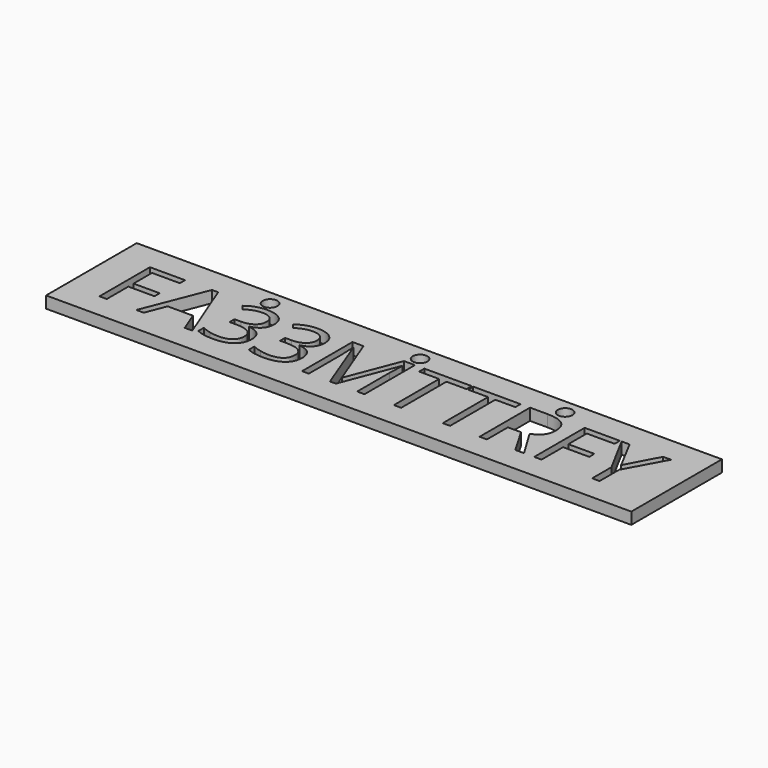
from build123d import *

# Parameters (mm, degrees)
F0_W     = 100
F0_H     = 19.3569156888
F0_R     = 1.25
F1_DEPTH = 2
F2_DEPTH = 25


with BuildPart() as f1:
    # F0 (on Top) → F1 (new body)
    with BuildSketch(Plane.XY):
        with Locations((45.7573593129, -5.4358171573)):
            Rectangle(F0_W, F0_H)
        Polygon((2.7344236481, -6.2639299273), (2.7344236481, -10.8716343146), (1.4816376627, -10.8716343146), (1.4816376627, -0.09201253), (7.4907636607, -0.09201253), (7.4907636607, -1.2056000726), (2.7344236481, -1.2056000726), (2.7344236481, -5.1503423847), (7.2029295925, -5.1503423847), (7.2029295925, -6.2639299273), align=None, mode=Mode.SUBTRACT)
        Polygon((17.3479008496, -10.8716343146), (16.050288247, -10.8716343146), (14.7078490271, -7.4435777479), (10.3879787081, -7.4435777479), (9.0620545578, -10.8716343146), (7.7927535028, -10.8716343146), (12.0536414308, -0.0471859128), (13.1082465824, -0.0471859128), align=None, mode=Mode.SUBTRACT)
        with BuildLine():
            add(Edge.make_bspline(
                [(23.8949462539, -0.6570638361), (24.7655263455, -1.3754693588), (24.7655263455, -2.6282553443)],
                knots=[0, 0, 0, 1, 1, 1], degree=2))
            add(Edge.make_bspline(
                [(24.7655263455, -2.6282553443), (24.7655263455, -3.6616268351), (24.1863192656, -4.3175110234)],
                knots=[0, 0, 0, 1, 1, 1], degree=2))
            add(Edge.make_bspline(
                [(24.1863192656, -4.3175110234), (23.6071121857, -4.9733952116), (22.5454291471, -5.1951690019)],
                knots=[0, 0, 0, 1, 1, 1], degree=2))
            Line((22.5454291471, -5.1951690019), (22.5454291471, -5.2541513929))
            add(Edge.make_bspline(
                [(22.5454291471, -5.2541513929), (23.8430417498, -5.4145834965), (24.4694347425, -6.0787252195)],
                knots=[0, 0, 0, 1, 1, 1], degree=2))
            add(Edge.make_bspline(
                [(24.4694347425, -6.0787252195), (25.0958277352, -6.7428669425), (25.0958277352, -7.8187057549)],
                knots=[0, 0, 0, 1, 1, 1], degree=2))
            add(Edge.make_bspline(
                [(25.0958277352, -7.8187057549), (25.0958277352, -9.3593258086), (24.0270668098, -10.1897978743)],
                knots=[0, 0, 0, 1, 1, 1], degree=2))
            add(Edge.make_bspline(
                [(24.0270668098, -10.1897978743), (22.9583058843, -11.02026994), (20.9906533196, -11.02026994)],
                knots=[0, 0, 0, 1, 1, 1], degree=2))
            add(Edge.make_bspline(
                [(20.9906533196, -11.02026994), (20.1342290018, -11.02026994), (19.422901366, -10.8905086797)],
                knots=[0, 0, 0, 1, 1, 1], degree=2))
            add(Edge.make_bspline(
                [(19.422901366, -10.8905086797), (18.7115737302, -10.7607474194), (18.0415337681, -10.4375239166)],
                knots=[0, 0, 0, 1, 1, 1], degree=2))
            Line((18.0415337681, -10.4375239166), (18.0415337681, -9.2720318698))
            add(Edge.make_bspline(
                [(18.0415337681, -9.2720318698), (18.7422445735, -9.6188483291), (19.534967909, -9.7993344456)],
                knots=[0, 0, 0, 1, 1, 1], degree=2))
            add(Edge.make_bspline(
                [(19.534967909, -9.7993344456), (20.3276912444, -9.9798205622), (21.0354799368, -9.9798205622)],
                knots=[0, 0, 0, 1, 1, 1], degree=2))
            add(Edge.make_bspline(
                [(21.0354799368, -9.9798205622), (23.8288859759, -9.9798205622), (23.8288859759, -7.7903942072)],
                knots=[0, 0, 0, 1, 1, 1], degree=2))
            add(Edge.make_bspline(
                [(23.8288859759, -7.7903942072), (23.8288859759, -5.8274602337), (20.7476458685, -5.8274602337)],
                knots=[0, 0, 0, 1, 1, 1], degree=2))
            Line((20.7476458685, -5.8274602337), (19.68596283, -5.8274602337))
            Line((19.68596283, -5.8274602337), (19.68596283, -4.7752143777))
            Line((19.68596283, -4.7752143777), (20.7618016424, -4.7752143777))
            add(Edge.make_bspline(
                [(20.7618016424, -4.7752143777), (22.0216655148, -4.7752143777), (22.7589454027, -4.2184206064)],
                knots=[0, 0, 0, 1, 1, 1], degree=2))
            add(Edge.make_bspline(
                [(22.7589454027, -4.2184206064), (23.4962252905, -3.6616268351), (23.4962252905, -2.6730819615)],
                knots=[0, 0, 0, 1, 1, 1], degree=2))
            add(Edge.make_bspline(
                [(23.4962252905, -2.6730819615), (23.4962252905, -1.8850772173), (22.9547669409, -1.4344517498)],
                knots=[0, 0, 0, 1, 1, 1], degree=2))
            add(Edge.make_bspline(
                [(22.9547669409, -1.4344517498), (22.4133085912, -0.9838262824), (21.4837461086, -0.9838262824)],
                knots=[0, 0, 0, 1, 1, 1], degree=2))
            add(Edge.make_bspline(
                [(21.4837461086, -0.9838262824), (20.7759574162, -0.9838262824), (20.1495644235, -1.1761088771)],
                knots=[0, 0, 0, 1, 1, 1], degree=2))
            add(Edge.make_bspline(
                [(20.1495644235, -1.1761088771), (19.5231714308, -1.3683914719), (18.7186516171, -1.8850772173)],
                knots=[0, 0, 0, 1, 1, 1], degree=2))
            Line((18.7186516171, -1.8850772173), (18.1005161591, -1.0593237429))
            add(Edge.make_bspline(
                [(18.1005161591, -1.0593237429), (18.7634782343, -0.5355601105), (19.6293397346, -0.2371092119)],
                knots=[0, 0, 0, 1, 1, 1], degree=2))
            add(Edge.make_bspline(
                [(19.6293397346, -0.2371092119), (20.4952012349, 0.0613416867), (21.4554345609, 0.0613416867)],
                knots=[0, 0, 0, 1, 1, 1], degree=2))
            add(Edge.make_bspline(
                [(21.4554345609, 0.0613416867), (23.0243661623, 0.0613416867), (23.8949462539, -0.6570638361)],
                knots=[0, 0, 0, 1, 1, 1], degree=2))
        make_face(mode=Mode.SUBTRACT)
        with BuildLine():
            add(Edge.make_bspline(
                [(32.527609005, -0.6570638361), (33.3981890966, -1.3754693588), (33.3981890966, -2.6282553443)],
                knots=[0, 0, 0, 1, 1, 1], degree=2))
            add(Edge.make_bspline(
                [(33.3981890966, -2.6282553443), (33.3981890966, -3.6616268351), (32.8189820166, -4.3175110234)],
                knots=[0, 0, 0, 1, 1, 1], degree=2))
            add(Edge.make_bspline(
                [(32.8189820166, -4.3175110234), (32.2397749367, -4.9733952116), (31.1780918982, -5.1951690019)],
                knots=[0, 0, 0, 1, 1, 1], degree=2))
            Line((31.1780918982, -5.1951690019), (31.1780918982, -5.2541513929))
            add(Edge.make_bspline(
                [(31.1780918982, -5.2541513929), (32.4757045009, -5.4145834965), (33.1020974936, -6.0787252195)],
                knots=[0, 0, 0, 1, 1, 1], degree=2))
            add(Edge.make_bspline(
                [(33.1020974936, -6.0787252195), (33.7284904863, -6.7428669425), (33.7284904863, -7.8187057549)],
                knots=[0, 0, 0, 1, 1, 1], degree=2))
            add(Edge.make_bspline(
                [(33.7284904863, -7.8187057549), (33.7284904863, -9.3593258086), (32.6597295609, -10.1897978743)],
                knots=[0, 0, 0, 1, 1, 1], degree=2))
            add(Edge.make_bspline(
                [(32.6597295609, -10.1897978743), (31.5909686354, -11.02026994), (29.6233160707, -11.02026994)],
                knots=[0, 0, 0, 1, 1, 1], degree=2))
            add(Edge.make_bspline(
                [(29.6233160707, -11.02026994), (28.7668917529, -11.02026994), (28.0555641171, -10.8905086797)],
                knots=[0, 0, 0, 1, 1, 1], degree=2))
            add(Edge.make_bspline(
                [(28.0555641171, -10.8905086797), (27.3442364813, -10.7607474194), (26.6741965192, -10.4375239166)],
                knots=[0, 0, 0, 1, 1, 1], degree=2))
            Line((26.6741965192, -10.4375239166), (26.6741965192, -9.2720318698))
            add(Edge.make_bspline(
                [(26.6741965192, -9.2720318698), (27.3749073246, -9.6188483291), (28.1676306601, -9.7993344456)],
                knots=[0, 0, 0, 1, 1, 1], degree=2))
            add(Edge.make_bspline(
                [(28.1676306601, -9.7993344456), (28.9603539955, -9.9798205622), (29.6681426878, -9.9798205622)],
                knots=[0, 0, 0, 1, 1, 1], degree=2))
            add(Edge.make_bspline(
                [(29.6681426878, -9.9798205622), (32.461548727, -9.9798205622), (32.461548727, -7.7903942072)],
                knots=[0, 0, 0, 1, 1, 1], degree=2))
            add(Edge.make_bspline(
                [(32.461548727, -7.7903942072), (32.461548727, -5.8274602337), (29.3803086196, -5.8274602337)],
                knots=[0, 0, 0, 1, 1, 1], degree=2))
            Line((29.3803086196, -5.8274602337), (28.3186255811, -5.8274602337))
            Line((28.3186255811, -5.8274602337), (28.3186255811, -4.7752143777))
            Line((28.3186255811, -4.7752143777), (29.3944643935, -4.7752143777))
            add(Edge.make_bspline(
                [(29.3944643935, -4.7752143777), (30.6543282659, -4.7752143777), (31.3916081537, -4.2184206064)],
                knots=[0, 0, 0, 1, 1, 1], degree=2))
            add(Edge.make_bspline(
                [(31.3916081537, -4.2184206064), (32.1288880416, -3.6616268351), (32.1288880416, -2.6730819615)],
                knots=[0, 0, 0, 1, 1, 1], degree=2))
            add(Edge.make_bspline(
                [(32.1288880416, -2.6730819615), (32.1288880416, -1.8850772173), (31.5874296919, -1.4344517498)],
                knots=[0, 0, 0, 1, 1, 1], degree=2))
            add(Edge.make_bspline(
                [(31.5874296919, -1.4344517498), (31.0459713423, -0.9838262824), (30.1164088597, -0.9838262824)],
                knots=[0, 0, 0, 1, 1, 1], degree=2))
            add(Edge.make_bspline(
                [(30.1164088597, -0.9838262824), (29.4086201673, -0.9838262824), (28.7822271746, -1.1761088771)],
                knots=[0, 0, 0, 1, 1, 1], degree=2))
            add(Edge.make_bspline(
                [(28.7822271746, -1.1761088771), (28.1558341819, -1.3683914719), (27.3513143682, -1.8850772173)],
                knots=[0, 0, 0, 1, 1, 1], degree=2))
            Line((27.3513143682, -1.8850772173), (26.7331789102, -1.0593237429))
            add(Edge.make_bspline(
                [(26.7331789102, -1.0593237429), (27.3961409854, -0.5355601105), (28.2620024857, -0.2371092119)],
                knots=[0, 0, 0, 1, 1, 1], degree=2))
            add(Edge.make_bspline(
                [(28.2620024857, -0.2371092119), (29.127863986, 0.0613416867), (30.088097312, 0.0613416867)],
                knots=[0, 0, 0, 1, 1, 1], degree=2))
            add(Edge.make_bspline(
                [(30.088097312, 0.0613416867), (31.6570289134, 0.0613416867), (32.527609005, -0.6570638361)],
                knots=[0, 0, 0, 1, 1, 1], degree=2))
        make_face(mode=Mode.SUBTRACT)
        with BuildLine():
            Line((41.8751383353, -10.8716343146), (40.8653598009, -10.8716343146))
            Line((40.8653598009, -10.8716343146), (37.2084515571, -1.3164869678))
            Line((37.2084515571, -1.3164869678), (37.149469166, -1.3164869678))
            add(Edge.make_bspline(
                [(37.149469166, -1.3164869678), (37.2532781742, -2.4513081712), (37.2532781742, -4.0155211813)],
                knots=[0, 0, 0, 1, 1, 1], degree=2))
            Line((37.2532781742, -4.0155211813), (37.2532781742, -10.8716343146))
            Line((37.2532781742, -10.8716343146), (36.0948640144, -10.8716343146))
            Line((36.0948640144, -10.8716343146), (36.0948640144, -0.09201253))
            Line((36.0948640144, -0.09201253), (37.9823005274, -0.09201253))
            Line((37.9823005274, -0.09201253), (41.3962013202, -8.9841978016))
            Line((41.3962013202, -8.9841978016), (41.4551837112, -8.9841978016))
            Line((41.4551837112, -8.9841978016), (44.8973960517, -0.09201253))
            Line((44.8973960517, -0.09201253), (46.7706767908, -0.09201253))
            Line((46.7706767908, -0.09201253), (46.7706767908, -10.8716343146))
            Line((46.7706767908, -10.8716343146), (45.5178908053, -10.8716343146))
            Line((45.5178908053, -10.8716343146), (45.5178908053, -3.9258679469))
            add(Edge.make_bspline(
                [(45.5178908053, -3.9258679469), (45.5178908053, -2.7320643525), (45.6216998135, -1.3306427416)],
                knots=[0, 0, 0, 1, 1, 1], degree=2))
            Line((45.6216998135, -1.3306427416), (45.5627174225, -1.3306427416))
            Line((45.5627174225, -1.3306427416), (41.8751383353, -10.8716343146))
        make_face(mode=Mode.SUBTRACT)
        Polygon((53.0440439007, -1.2056000726), (53.0440439007, -10.8716343146), (51.7912579152, -10.8716343146), (51.7912579152, -1.2056000726), (48.3773571224, -1.2056000726), (48.3773571224, -0.09201253), (56.4579446935, -0.09201253), (56.4579446935, -1.2056000726), align=None, mode=Mode.SUBTRACT)
        Polygon((61.3983097661, -1.2056000726), (61.3983097661, -10.8716343146), (60.1455237806, -10.8716343146), (60.1455237806, -1.2056000726), (56.7316229878, -1.2056000726), (56.7316229878, -0.09201253), (64.8122105589, -0.09201253), (64.8122105589, -1.2056000726), align=None, mode=Mode.SUBTRACT)
        with BuildLine():
            Line((69.9389599872, -6.3889725963), (67.6881919455, -6.3889725963))
            Line((67.6881919455, -6.3889725963), (67.6881919455, -10.8716343146))
            Line((67.6881919455, -10.8716343146), (66.43540596, -10.8716343146))
            Line((66.43540596, -10.8716343146), (66.43540596, -0.09201253))
            Line((66.43540596, -0.09201253), (69.3916033984, -0.09201253))
            add(Edge.make_bspline(
                [(69.3916033984, -0.09201253), (71.3757710326, -0.09201253), (72.3230282326, -0.8517057265)],
                knots=[0, 0, 0, 1, 1, 1], degree=2))
            add(Edge.make_bspline(
                [(72.3230282326, -0.8517057265), (73.2702854325, -1.6113989229), (73.2702854325, -3.1378632028)],
                knots=[0, 0, 0, 1, 1, 1], degree=2))
            add(Edge.make_bspline(
                [(73.2702854325, -3.1378632028), (73.2702854325, -5.2753850537), (71.1020927383, -6.0280003632)],
                knots=[0, 0, 0, 1, 1, 1], degree=2))
            Line((71.1020927383, -6.0280003632), (74.029978629, -10.8716343146))
            Line((74.029978629, -10.8716343146), (72.5483409663, -10.8716343146))
            Line((72.5483409663, -10.8716343146), (69.9389599872, -6.3889725963))
        make_face(mode=Mode.SUBTRACT)
        Polygon((77.021565502, -6.2639299273), (77.021565502, -10.8716343146), (75.7687795165, -10.8716343146), (75.7687795165, -0.09201253), (81.7779055146, -0.09201253), (81.7779055146, -1.2056000726), (77.021565502, -1.2056000726), (77.021565502, -5.1503423847), (81.4900714464, -5.1503423847), (81.4900714464, -6.2639299273), align=None, mode=Mode.SUBTRACT)
        Polygon((83.4506461242, -0.09201253), (86.30539385, -5.4830030701), (89.179015941, -0.09201253), (90.5356109347, -0.09201253), (86.9376850819, -6.6909624384), (86.9376850819, -10.8716343146), (85.6707433226, -10.8716343146), (85.6707433226, -6.7499448294), (82.0798953567, -0.09201253), align=None, mode=Mode.SUBTRACT)
        with Locations((20.5459631979, 1.7426406871)):
            Circle(F0_R, mode=Mode.SUBTRACT)
        with Locations((46.1801515427, 1.7426406871)):
            Circle(F0_R, mode=Mode.SUBTRACT)
        with Locations((70.9687554278, 1.7426406871)):
            Circle(F0_R, mode=Mode.SUBTRACT)
    extrude(amount=F1_DEPTH)

    # F0 (on Top) → F2 (cut)
    with BuildSketch(Plane.XY):
        with Locations((45.7573593129, -5.4358171573)):
            Rectangle(F0_W, F0_H)
        Polygon((2.7344236481, -6.2639299273), (2.7344236481, -10.8716343146), (1.4816376627, -10.8716343146), (1.4816376627, -0.09201253), (7.4907636607, -0.09201253), (7.4907636607, -1.2056000726), (2.7344236481, -1.2056000726), (2.7344236481, -5.1503423847), (7.2029295925, -5.1503423847), (7.2029295925, -6.2639299273), align=None, mode=Mode.SUBTRACT)
        Polygon((17.3479008496, -10.8716343146), (16.050288247, -10.8716343146), (14.7078490271, -7.4435777479), (10.3879787081, -7.4435777479), (9.0620545578, -10.8716343146), (7.7927535028, -10.8716343146), (12.0536414308, -0.0471859128), (13.1082465824, -0.0471859128), align=None, mode=Mode.SUBTRACT)
        with BuildLine():
            add(Edge.make_bspline(
                [(23.8949462539, -0.6570638361), (24.7655263455, -1.3754693588), (24.7655263455, -2.6282553443)],
                knots=[0, 0, 0, 1, 1, 1], degree=2))
            add(Edge.make_bspline(
                [(24.7655263455, -2.6282553443), (24.7655263455, -3.6616268351), (24.1863192656, -4.3175110234)],
                knots=[0, 0, 0, 1, 1, 1], degree=2))
            add(Edge.make_bspline(
                [(24.1863192656, -4.3175110234), (23.6071121857, -4.9733952116), (22.5454291471, -5.1951690019)],
                knots=[0, 0, 0, 1, 1, 1], degree=2))
            Line((22.5454291471, -5.1951690019), (22.5454291471, -5.2541513929))
            add(Edge.make_bspline(
                [(22.5454291471, -5.2541513929), (23.8430417498, -5.4145834965), (24.4694347425, -6.0787252195)],
                knots=[0, 0, 0, 1, 1, 1], degree=2))
            add(Edge.make_bspline(
                [(24.4694347425, -6.0787252195), (25.0958277352, -6.7428669425), (25.0958277352, -7.8187057549)],
                knots=[0, 0, 0, 1, 1, 1], degree=2))
            add(Edge.make_bspline(
                [(25.0958277352, -7.8187057549), (25.0958277352, -9.3593258086), (24.0270668098, -10.1897978743)],
                knots=[0, 0, 0, 1, 1, 1], degree=2))
            add(Edge.make_bspline(
                [(24.0270668098, -10.1897978743), (22.9583058843, -11.02026994), (20.9906533196, -11.02026994)],
                knots=[0, 0, 0, 1, 1, 1], degree=2))
            add(Edge.make_bspline(
                [(20.9906533196, -11.02026994), (20.1342290018, -11.02026994), (19.422901366, -10.8905086797)],
                knots=[0, 0, 0, 1, 1, 1], degree=2))
            add(Edge.make_bspline(
                [(19.422901366, -10.8905086797), (18.7115737302, -10.7607474194), (18.0415337681, -10.4375239166)],
                knots=[0, 0, 0, 1, 1, 1], degree=2))
            Line((18.0415337681, -10.4375239166), (18.0415337681, -9.2720318698))
            add(Edge.make_bspline(
                [(18.0415337681, -9.2720318698), (18.7422445735, -9.6188483291), (19.534967909, -9.7993344456)],
                knots=[0, 0, 0, 1, 1, 1], degree=2))
            add(Edge.make_bspline(
                [(19.534967909, -9.7993344456), (20.3276912444, -9.9798205622), (21.0354799368, -9.9798205622)],
                knots=[0, 0, 0, 1, 1, 1], degree=2))
            add(Edge.make_bspline(
                [(21.0354799368, -9.9798205622), (23.8288859759, -9.9798205622), (23.8288859759, -7.7903942072)],
                knots=[0, 0, 0, 1, 1, 1], degree=2))
            add(Edge.make_bspline(
                [(23.8288859759, -7.7903942072), (23.8288859759, -5.8274602337), (20.7476458685, -5.8274602337)],
                knots=[0, 0, 0, 1, 1, 1], degree=2))
            Line((20.7476458685, -5.8274602337), (19.68596283, -5.8274602337))
            Line((19.68596283, -5.8274602337), (19.68596283, -4.7752143777))
            Line((19.68596283, -4.7752143777), (20.7618016424, -4.7752143777))
            add(Edge.make_bspline(
                [(20.7618016424, -4.7752143777), (22.0216655148, -4.7752143777), (22.7589454027, -4.2184206064)],
                knots=[0, 0, 0, 1, 1, 1], degree=2))
            add(Edge.make_bspline(
                [(22.7589454027, -4.2184206064), (23.4962252905, -3.6616268351), (23.4962252905, -2.6730819615)],
                knots=[0, 0, 0, 1, 1, 1], degree=2))
            add(Edge.make_bspline(
                [(23.4962252905, -2.6730819615), (23.4962252905, -1.8850772173), (22.9547669409, -1.4344517498)],
                knots=[0, 0, 0, 1, 1, 1], degree=2))
            add(Edge.make_bspline(
                [(22.9547669409, -1.4344517498), (22.4133085912, -0.9838262824), (21.4837461086, -0.9838262824)],
                knots=[0, 0, 0, 1, 1, 1], degree=2))
            add(Edge.make_bspline(
                [(21.4837461086, -0.9838262824), (20.7759574162, -0.9838262824), (20.1495644235, -1.1761088771)],
                knots=[0, 0, 0, 1, 1, 1], degree=2))
            add(Edge.make_bspline(
                [(20.1495644235, -1.1761088771), (19.5231714308, -1.3683914719), (18.7186516171, -1.8850772173)],
                knots=[0, 0, 0, 1, 1, 1], degree=2))
            Line((18.7186516171, -1.8850772173), (18.1005161591, -1.0593237429))
            add(Edge.make_bspline(
                [(18.1005161591, -1.0593237429), (18.7634782343, -0.5355601105), (19.6293397346, -0.2371092119)],
                knots=[0, 0, 0, 1, 1, 1], degree=2))
            add(Edge.make_bspline(
                [(19.6293397346, -0.2371092119), (20.4952012349, 0.0613416867), (21.4554345609, 0.0613416867)],
                knots=[0, 0, 0, 1, 1, 1], degree=2))
            add(Edge.make_bspline(
                [(21.4554345609, 0.0613416867), (23.0243661623, 0.0613416867), (23.8949462539, -0.6570638361)],
                knots=[0, 0, 0, 1, 1, 1], degree=2))
        make_face(mode=Mode.SUBTRACT)
        with BuildLine():
            add(Edge.make_bspline(
                [(32.527609005, -0.6570638361), (33.3981890966, -1.3754693588), (33.3981890966, -2.6282553443)],
                knots=[0, 0, 0, 1, 1, 1], degree=2))
            add(Edge.make_bspline(
                [(33.3981890966, -2.6282553443), (33.3981890966, -3.6616268351), (32.8189820166, -4.3175110234)],
                knots=[0, 0, 0, 1, 1, 1], degree=2))
            add(Edge.make_bspline(
                [(32.8189820166, -4.3175110234), (32.2397749367, -4.9733952116), (31.1780918982, -5.1951690019)],
                knots=[0, 0, 0, 1, 1, 1], degree=2))
            Line((31.1780918982, -5.1951690019), (31.1780918982, -5.2541513929))
            add(Edge.make_bspline(
                [(31.1780918982, -5.2541513929), (32.4757045009, -5.4145834965), (33.1020974936, -6.0787252195)],
                knots=[0, 0, 0, 1, 1, 1], degree=2))
            add(Edge.make_bspline(
                [(33.1020974936, -6.0787252195), (33.7284904863, -6.7428669425), (33.7284904863, -7.8187057549)],
                knots=[0, 0, 0, 1, 1, 1], degree=2))
            add(Edge.make_bspline(
                [(33.7284904863, -7.8187057549), (33.7284904863, -9.3593258086), (32.6597295609, -10.1897978743)],
                knots=[0, 0, 0, 1, 1, 1], degree=2))
            add(Edge.make_bspline(
                [(32.6597295609, -10.1897978743), (31.5909686354, -11.02026994), (29.6233160707, -11.02026994)],
                knots=[0, 0, 0, 1, 1, 1], degree=2))
            add(Edge.make_bspline(
                [(29.6233160707, -11.02026994), (28.7668917529, -11.02026994), (28.0555641171, -10.8905086797)],
                knots=[0, 0, 0, 1, 1, 1], degree=2))
            add(Edge.make_bspline(
                [(28.0555641171, -10.8905086797), (27.3442364813, -10.7607474194), (26.6741965192, -10.4375239166)],
                knots=[0, 0, 0, 1, 1, 1], degree=2))
            Line((26.6741965192, -10.4375239166), (26.6741965192, -9.2720318698))
            add(Edge.make_bspline(
                [(26.6741965192, -9.2720318698), (27.3749073246, -9.6188483291), (28.1676306601, -9.7993344456)],
                knots=[0, 0, 0, 1, 1, 1], degree=2))
            add(Edge.make_bspline(
                [(28.1676306601, -9.7993344456), (28.9603539955, -9.9798205622), (29.6681426878, -9.9798205622)],
                knots=[0, 0, 0, 1, 1, 1], degree=2))
            add(Edge.make_bspline(
                [(29.6681426878, -9.9798205622), (32.461548727, -9.9798205622), (32.461548727, -7.7903942072)],
                knots=[0, 0, 0, 1, 1, 1], degree=2))
            add(Edge.make_bspline(
                [(32.461548727, -7.7903942072), (32.461548727, -5.8274602337), (29.3803086196, -5.8274602337)],
                knots=[0, 0, 0, 1, 1, 1], degree=2))
            Line((29.3803086196, -5.8274602337), (28.3186255811, -5.8274602337))
            Line((28.3186255811, -5.8274602337), (28.3186255811, -4.7752143777))
            Line((28.3186255811, -4.7752143777), (29.3944643935, -4.7752143777))
            add(Edge.make_bspline(
                [(29.3944643935, -4.7752143777), (30.6543282659, -4.7752143777), (31.3916081537, -4.2184206064)],
                knots=[0, 0, 0, 1, 1, 1], degree=2))
            add(Edge.make_bspline(
                [(31.3916081537, -4.2184206064), (32.1288880416, -3.6616268351), (32.1288880416, -2.6730819615)],
                knots=[0, 0, 0, 1, 1, 1], degree=2))
            add(Edge.make_bspline(
                [(32.1288880416, -2.6730819615), (32.1288880416, -1.8850772173), (31.5874296919, -1.4344517498)],
                knots=[0, 0, 0, 1, 1, 1], degree=2))
            add(Edge.make_bspline(
                [(31.5874296919, -1.4344517498), (31.0459713423, -0.9838262824), (30.1164088597, -0.9838262824)],
                knots=[0, 0, 0, 1, 1, 1], degree=2))
            add(Edge.make_bspline(
                [(30.1164088597, -0.9838262824), (29.4086201673, -0.9838262824), (28.7822271746, -1.1761088771)],
                knots=[0, 0, 0, 1, 1, 1], degree=2))
            add(Edge.make_bspline(
                [(28.7822271746, -1.1761088771), (28.1558341819, -1.3683914719), (27.3513143682, -1.8850772173)],
                knots=[0, 0, 0, 1, 1, 1], degree=2))
            Line((27.3513143682, -1.8850772173), (26.7331789102, -1.0593237429))
            add(Edge.make_bspline(
                [(26.7331789102, -1.0593237429), (27.3961409854, -0.5355601105), (28.2620024857, -0.2371092119)],
                knots=[0, 0, 0, 1, 1, 1], degree=2))
            add(Edge.make_bspline(
                [(28.2620024857, -0.2371092119), (29.127863986, 0.0613416867), (30.088097312, 0.0613416867)],
                knots=[0, 0, 0, 1, 1, 1], degree=2))
            add(Edge.make_bspline(
                [(30.088097312, 0.0613416867), (31.6570289134, 0.0613416867), (32.527609005, -0.6570638361)],
                knots=[0, 0, 0, 1, 1, 1], degree=2))
        make_face(mode=Mode.SUBTRACT)
        with BuildLine():
            Line((41.8751383353, -10.8716343146), (40.8653598009, -10.8716343146))
            Line((40.8653598009, -10.8716343146), (37.2084515571, -1.3164869678))
            Line((37.2084515571, -1.3164869678), (37.149469166, -1.3164869678))
            add(Edge.make_bspline(
                [(37.149469166, -1.3164869678), (37.2532781742, -2.4513081712), (37.2532781742, -4.0155211813)],
                knots=[0, 0, 0, 1, 1, 1], degree=2))
            Line((37.2532781742, -4.0155211813), (37.2532781742, -10.8716343146))
            Line((37.2532781742, -10.8716343146), (36.0948640144, -10.8716343146))
            Line((36.0948640144, -10.8716343146), (36.0948640144, -0.09201253))
            Line((36.0948640144, -0.09201253), (37.9823005274, -0.09201253))
            Line((37.9823005274, -0.09201253), (41.3962013202, -8.9841978016))
            Line((41.3962013202, -8.9841978016), (41.4551837112, -8.9841978016))
            Line((41.4551837112, -8.9841978016), (44.8973960517, -0.09201253))
            Line((44.8973960517, -0.09201253), (46.7706767908, -0.09201253))
            Line((46.7706767908, -0.09201253), (46.7706767908, -10.8716343146))
            Line((46.7706767908, -10.8716343146), (45.5178908053, -10.8716343146))
            Line((45.5178908053, -10.8716343146), (45.5178908053, -3.9258679469))
            add(Edge.make_bspline(
                [(45.5178908053, -3.9258679469), (45.5178908053, -2.7320643525), (45.6216998135, -1.3306427416)],
                knots=[0, 0, 0, 1, 1, 1], degree=2))
            Line((45.6216998135, -1.3306427416), (45.5627174225, -1.3306427416))
            Line((45.5627174225, -1.3306427416), (41.8751383353, -10.8716343146))
        make_face(mode=Mode.SUBTRACT)
        Polygon((53.0440439007, -1.2056000726), (53.0440439007, -10.8716343146), (51.7912579152, -10.8716343146), (51.7912579152, -1.2056000726), (48.3773571224, -1.2056000726), (48.3773571224, -0.09201253), (56.4579446935, -0.09201253), (56.4579446935, -1.2056000726), align=None, mode=Mode.SUBTRACT)
        Polygon((61.3983097661, -1.2056000726), (61.3983097661, -10.8716343146), (60.1455237806, -10.8716343146), (60.1455237806, -1.2056000726), (56.7316229878, -1.2056000726), (56.7316229878, -0.09201253), (64.8122105589, -0.09201253), (64.8122105589, -1.2056000726), align=None, mode=Mode.SUBTRACT)
        with BuildLine():
            Line((69.9389599872, -6.3889725963), (67.6881919455, -6.3889725963))
            Line((67.6881919455, -6.3889725963), (67.6881919455, -10.8716343146))
            Line((67.6881919455, -10.8716343146), (66.43540596, -10.8716343146))
            Line((66.43540596, -10.8716343146), (66.43540596, -0.09201253))
            Line((66.43540596, -0.09201253), (69.3916033984, -0.09201253))
            add(Edge.make_bspline(
                [(69.3916033984, -0.09201253), (71.3757710326, -0.09201253), (72.3230282326, -0.8517057265)],
                knots=[0, 0, 0, 1, 1, 1], degree=2))
            add(Edge.make_bspline(
                [(72.3230282326, -0.8517057265), (73.2702854325, -1.6113989229), (73.2702854325, -3.1378632028)],
                knots=[0, 0, 0, 1, 1, 1], degree=2))
            add(Edge.make_bspline(
                [(73.2702854325, -3.1378632028), (73.2702854325, -5.2753850537), (71.1020927383, -6.0280003632)],
                knots=[0, 0, 0, 1, 1, 1], degree=2))
            Line((71.1020927383, -6.0280003632), (74.029978629, -10.8716343146))
            Line((74.029978629, -10.8716343146), (72.5483409663, -10.8716343146))
            Line((72.5483409663, -10.8716343146), (69.9389599872, -6.3889725963))
        make_face(mode=Mode.SUBTRACT)
        Polygon((77.021565502, -6.2639299273), (77.021565502, -10.8716343146), (75.7687795165, -10.8716343146), (75.7687795165, -0.09201253), (81.7779055146, -0.09201253), (81.7779055146, -1.2056000726), (77.021565502, -1.2056000726), (77.021565502, -5.1503423847), (81.4900714464, -5.1503423847), (81.4900714464, -6.2639299273), align=None, mode=Mode.SUBTRACT)
        Polygon((83.4506461242, -0.09201253), (86.30539385, -5.4830030701), (89.179015941, -0.09201253), (90.5356109347, -0.09201253), (86.9376850819, -6.6909624384), (86.9376850819, -10.8716343146), (85.6707433226, -10.8716343146), (85.6707433226, -6.7499448294), (82.0798953567, -0.09201253), align=None, mode=Mode.SUBTRACT)
        with Locations((20.5459631979, 1.7426406871)):
            Circle(F0_R, mode=Mode.SUBTRACT)
        with Locations((46.1801515427, 1.7426406871)):
            Circle(F0_R, mode=Mode.SUBTRACT)
        with Locations((70.9687554278, 1.7426406871)):
            Circle(F0_R, mode=Mode.SUBTRACT)
    extrude(amount=-F2_DEPTH, mode=Mode.SUBTRACT)


solid = f1.part
